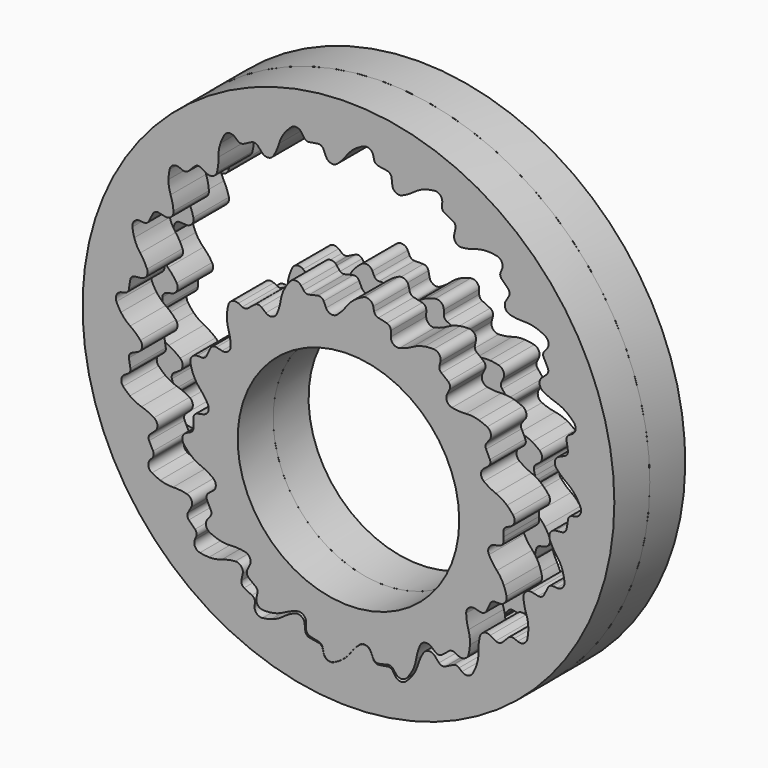
from build123d import *

# Parameters (mm, degrees)
F0_R      = 38.1
F1_DEPTH  = 6.35
F0_R_2    = 15.875
F2_DEPTH  = 6.35
F3_R      = 5.08
F3_2_R    = 5.08
F4_R      = 1.016
F5_R      = 1.016
F6_R      = 0.762
F7_R      = 0.762
F10_ANGLE = 9
F11_ANGLE = 12.8571


with BuildPart() as f1:
    # F0 (on Front) → F1 (new body)
    with BuildSketch(Plane.XZ):
        Circle(F0_R)
        with BuildLine():
            ThreePointArc((31.5214, 3.8031358167), (31.6927984722, 1.905), (31.75, 0))
            ThreePointArc((31.75, 0), (32.9224704526, -1.5227783942), (33.655, -3.2995567884))
            Line((33.655, -3.2995567884), (31.5214, -3.8031358167))
            ThreePointArc((31.5214, -3.8031358167), (31.3591048139, -4.966794265), (31.153866472, -6.1236511857))
            ThreePointArc((31.153866472, -6.1236511857), (30.7303198809, -7.9818506637), (30.1960443924, -9.8112895714))
            ThreePointArc((30.1960443924, -9.8112895714), (30.840565654, -11.6218511813), (30.9881879344, -13.5380319302))
            Line((30.9881879344, -13.5380319302), (28.8033992735, -13.3576453873))
            ThreePointArc((28.8033992735, -13.3576453873), (28.289457143, -14.4141983667), (27.736775432, -15.451012544))
            ThreePointArc((27.736775432, -15.451012544), (26.7597434689, -17.0873821716), (25.6862895714, -18.6621817603))
            ThreePointArc((25.6862895714, -18.6621817603), (25.7397714103, -20.5832962006), (25.2880361264, -22.4513101816))
            Line((25.2880361264, -22.4513101816), (23.265921141, -21.6046155592))
            ThreePointArc((23.265921141, -21.6046155592), (22.4506403027, -22.4506403027), (21.6046155592, -23.265921141))
            ThreePointArc((21.6046155592, -23.265921141), (20.1697369201, -24.5202816577), (18.6621817603, -25.6862895714))
            ThreePointArc((18.6621817603, -25.6862895714), (18.1193890015, -27.5299047756), (17.1125151502, -29.166897765))
            Line((17.1125151502, -29.166897765), (15.451012544, -27.736775432))
            ThreePointArc((15.451012544, -27.736775432), (14.4141983667, -28.289457143), (13.3576453873, -28.8033992735))
            ThreePointArc((13.3576453873, -28.8033992735), (11.6053759908, -29.5529651323), (9.8112895714, -30.1960443924))
            ThreePointArc((9.8112895714, -30.1960443924), (8.725354552, -31.7816944589), (7.2619019612, -33.0274261774))
            Line((7.2619019612, -33.0274261774), (6.1236511857, -31.153866472))
            ThreePointArc((6.1236511857, -31.153866472), (4.966794265, -31.3591048139), (3.8031358167, -31.5214))
            ThreePointArc((3.8031358167, -31.5214), (1.905, -31.6927984722), (0, -31.75))
            ThreePointArc((0, -31.75), (-1.5227783942, -32.9224704526), (-3.2995567884, -33.655))
            Line((-3.2995567884, -33.655), (-3.8031358167, -31.5214))
            ThreePointArc((-3.8031358167, -31.5214), (-4.966794265, -31.3591048139), (-6.1236511857, -31.153866472))
            ThreePointArc((-6.1236511857, -31.153866472), (-7.9818506637, -30.7303198809), (-9.8112895714, -30.1960443924))
            ThreePointArc((-9.8112895714, -30.1960443924), (-11.6218511813, -30.840565654), (-13.5380319302, -30.9881879344))
            Line((-13.5380319302, -30.9881879344), (-13.3576453873, -28.8033992735))
            ThreePointArc((-13.3576453873, -28.8033992735), (-14.4141983667, -28.289457143), (-15.451012544, -27.736775432))
            ThreePointArc((-15.451012544, -27.736775432), (-17.0873821716, -26.7597434689), (-18.6621817603, -25.6862895714))
            ThreePointArc((-18.6621817603, -25.6862895714), (-20.5832962006, -25.7397714103), (-22.4513101816, -25.2880361264))
            Line((-22.4513101816, -25.2880361264), (-21.6046155592, -23.265921141))
            ThreePointArc((-21.6046155592, -23.265921141), (-22.4506403027, -22.4506403027), (-23.265921141, -21.6046155592))
            ThreePointArc((-23.265921141, -21.6046155592), (-24.5202816577, -20.1697369201), (-25.6862895714, -18.6621817603))
            ThreePointArc((-25.6862895714, -18.6621817603), (-27.5299047756, -18.1193890015), (-29.166897765, -17.1125151502))
            Line((-29.166897765, -17.1125151502), (-27.736775432, -15.451012544))
            ThreePointArc((-27.736775432, -15.451012544), (-28.289457143, -14.4141983667), (-28.8033992735, -13.3576453873))
            ThreePointArc((-28.8033992735, -13.3576453873), (-29.5529651323, -11.6053759908), (-30.1960443924, -9.8112895714))
            ThreePointArc((-30.1960443924, -9.8112895714), (-31.7816944589, -8.725354552), (-33.0274261774, -7.2619019612))
            Line((-33.0274261774, -7.2619019612), (-31.153866472, -6.1236511857))
            ThreePointArc((-31.153866472, -6.1236511857), (-31.3591048139, -4.966794265), (-31.5214, -3.8031358167))
            ThreePointArc((-31.5214, -3.8031358167), (-31.6927984722, -1.905), (-31.75, 0))
            ThreePointArc((-31.75, 0), (-32.9224704526, 1.5227783942), (-33.655, 3.2995567884))
            Line((-33.655, 3.2995567884), (-31.5214, 3.8031358167))
            ThreePointArc((-31.5214, 3.8031358167), (-31.3591048139, 4.966794265), (-31.153866472, 6.1236511857))
            ThreePointArc((-31.153866472, 6.1236511857), (-30.7303198809, 7.9818506637), (-30.1960443924, 9.8112895714))
            ThreePointArc((-30.1960443924, 9.8112895714), (-30.840565654, 11.6218511813), (-30.9881879344, 13.5380319302))
            Line((-30.9881879344, 13.5380319302), (-28.8033992735, 13.3576453873))
            ThreePointArc((-28.8033992735, 13.3576453873), (-28.289457143, 14.4141983667), (-27.736775432, 15.451012544))
            ThreePointArc((-27.736775432, 15.451012544), (-26.7597434689, 17.0873821716), (-25.6862895714, 18.6621817603))
            ThreePointArc((-25.6862895714, 18.6621817603), (-25.7397714103, 20.5832962006), (-25.2880361264, 22.4513101816))
            Line((-25.2880361264, 22.4513101816), (-23.265921141, 21.6046155592))
            ThreePointArc((-23.265921141, 21.6046155592), (-22.4506403027, 22.4506403027), (-21.6046155592, 23.265921141))
            ThreePointArc((-21.6046155592, 23.265921141), (-20.1697369201, 24.5202816577), (-18.6621817603, 25.6862895714))
            ThreePointArc((-18.6621817603, 25.6862895714), (-18.1193890015, 27.5299047756), (-17.1125151502, 29.166897765))
            Line((-17.1125151502, 29.166897765), (-15.451012544, 27.736775432))
            ThreePointArc((-15.451012544, 27.736775432), (-14.4141983667, 28.289457143), (-13.3576453873, 28.8033992735))
            ThreePointArc((-13.3576453873, 28.8033992735), (-11.6053759908, 29.5529651323), (-9.8112895714, 30.1960443924))
            ThreePointArc((-9.8112895714, 30.1960443924), (-8.725354552, 31.7816944589), (-7.2619019612, 33.0274261774))
            Line((-7.2619019612, 33.0274261774), (-6.1236511857, 31.153866472))
            ThreePointArc((-6.1236511857, 31.153866472), (-4.966794265, 31.3591048139), (-3.8031358167, 31.5214))
            ThreePointArc((-3.8031358167, 31.5214), (-1.905, 31.6927984722), (0, 31.75))
            ThreePointArc((0, 31.75), (1.5227783942, 32.9224704526), (3.2995567884, 33.655))
            Line((3.2995567884, 33.655), (3.8031358167, 31.5214))
            ThreePointArc((3.8031358167, 31.5214), (4.966794265, 31.3591048139), (6.1236511857, 31.153866472))
            ThreePointArc((6.1236511857, 31.153866472), (7.9818506637, 30.7303198809), (9.8112895714, 30.1960443924))
            ThreePointArc((9.8112895714, 30.1960443924), (11.6218511813, 30.840565654), (13.5380319302, 30.9881879344))
            Line((13.5380319302, 30.9881879344), (13.3576453873, 28.8033992735))
            ThreePointArc((13.3576453873, 28.8033992735), (14.4141983667, 28.289457143), (15.451012544, 27.736775432))
            ThreePointArc((15.451012544, 27.736775432), (17.0873821716, 26.7597434689), (18.6621817603, 25.6862895714))
            ThreePointArc((18.6621817603, 25.6862895714), (20.5832962006, 25.7397714103), (22.4513101816, 25.2880361264))
            Line((22.4513101816, 25.2880361264), (21.6046155592, 23.265921141))
            ThreePointArc((21.6046155592, 23.265921141), (22.4506403027, 22.4506403027), (23.265921141, 21.6046155592))
            ThreePointArc((23.265921141, 21.6046155592), (24.5202816577, 20.1697369201), (25.6862895714, 18.6621817603))
            ThreePointArc((25.6862895714, 18.6621817603), (27.5299047756, 18.1193890015), (29.166897765, 17.1125151502))
            Line((29.166897765, 17.1125151502), (27.736775432, 15.451012544))
            ThreePointArc((27.736775432, 15.451012544), (28.289457143, 14.4141983667), (28.8033992735, 13.3576453873))
            ThreePointArc((28.8033992735, 13.3576453873), (29.5529651323, 11.6053759908), (30.1960443924, 9.8112895714))
            ThreePointArc((30.1960443924, 9.8112895714), (31.7816944589, 8.725354552), (33.0274261774, 7.2619019612))
            Line((33.0274261774, 7.2619019612), (31.153866472, 6.1236511857))
            ThreePointArc((31.153866472, 6.1236511857), (31.3591048139, 4.966794265), (31.5214, 3.8031358167))
        make_face(mode=Mode.SUBTRACT)
        with BuildLine():
            ThreePointArc((-2.6940768363, 29.0559231637), (-1.1674332957, 30.2233564594), (0, 31.75))
            ThreePointArc((0, 31.75), (-1.905, 31.6927984722), (-3.8031358167, 31.5214))
            Line((-3.8031358167, 31.5214), (-2.6940768363, 29.0559231637))
        make_face()
        with BuildLine():
            ThreePointArc((6.4165547142, 28.4663405884), (8.2292357298, 29.1048768332), (9.8112895714, 30.1960443924))
            ThreePointArc((9.8112895714, 30.1960443924), (7.9818506637, 30.7303198809), (6.1236511857, 31.153866472))
            Line((6.1236511857, 31.153866472), (6.4165547142, 28.4663405884))
        make_face()
        with BuildLine():
            ThreePointArc((14.8990891826, 25.0902742596), (16.8203698256, 25.137409077), (18.6621817603, 25.6862895714))
            ThreePointArc((18.6621817603, 25.6862895714), (17.0873821716, 26.7597434689), (15.451012544, 27.736775432))
            Line((15.451012544, 27.736775432), (14.8990891826, 25.0902742596))
        make_face()
        with BuildLine():
            ThreePointArc((21.9231969937, 19.2581970721), (23.7650089285, 18.7093165777), (25.6862895714, 18.6621817603))
            ThreePointArc((25.6862895714, 18.6621817603), (24.5202816577, 20.1697369201), (23.265921141, 21.6046155592))
            Line((23.265921141, 21.6046155592), (21.9231969937, 19.2581970721))
        make_face()
        with BuildLine():
            ThreePointArc((-19.2581970721, 21.9231969937), (-18.7093165777, 23.7650089285), (-18.6621817603, 25.6862895714))
            ThreePointArc((-18.6621817603, 25.6862895714), (-20.1697369201, 24.5202816577), (-21.6046155592, 23.265921141))
            Line((-21.6046155592, 23.265921141), (-19.2581970721, 21.9231969937))
        make_face()
        with BuildLine():
            ThreePointArc((-11.5409933754, 26.8013095352), (-10.4498258163, 28.3833633769), (-9.8112895714, 30.1960443924))
            ThreePointArc((-9.8112895714, 30.1960443924), (-11.6053759908, 29.5529651323), (-13.3576453873, 28.8033992735))
            Line((-13.3576453873, 28.8033992735), (-11.5409933754, 26.8013095352))
        make_face()
        with BuildLine():
            ThreePointArc((-25.0902742596, 14.8990891826), (-25.137409077, 16.8203698256), (-25.6862895714, 18.6621817603))
            ThreePointArc((-25.6862895714, 18.6621817603), (-26.7597434689, 17.0873821716), (-27.736775432, 15.451012544))
            Line((-27.736775432, 15.451012544), (-25.0902742596, 14.8990891826))
        make_face()
        with BuildLine():
            ThreePointArc((-28.4663405884, 6.4165547142), (-29.1048768332, 8.2292357298), (-30.1960443924, 9.8112895714))
            ThreePointArc((-30.1960443924, 9.8112895714), (-30.7303198809, 7.9818506637), (-31.153866472, 6.1236511857))
            Line((-31.153866472, 6.1236511857), (-28.4663405884, 6.4165547142))
        make_face()
        with BuildLine():
            ThreePointArc((-31.75, 0), (-31.6927984722, -1.905), (-31.5214, -3.8031358167))
            Line((-31.5214, -3.8031358167), (-29.0559231637, -2.6940768363))
            ThreePointArc((-29.0559231637, -2.6940768363), (-30.2233564594, -1.1674332957), (-31.75, 0))
        make_face()
        with BuildLine():
            ThreePointArc((-30.1960443924, -9.8112895714), (-29.5529651323, -11.6053759908), (-28.8033992735, -13.3576453873))
            Line((-28.8033992735, -13.3576453873), (-26.8013095352, -11.5409933754))
            ThreePointArc((-26.8013095352, -11.5409933754), (-28.3833633769, -10.4498258163), (-30.1960443924, -9.8112895714))
        make_face()
        with BuildLine():
            ThreePointArc((-25.6862895714, -18.6621817603), (-24.5202816577, -20.1697369201), (-23.265921141, -21.6046155592))
            Line((-23.265921141, -21.6046155592), (-21.9231969937, -19.2581970721))
            ThreePointArc((-21.9231969937, -19.2581970721), (-23.7650089285, -18.7093165777), (-25.6862895714, -18.6621817603))
        make_face()
        with BuildLine():
            ThreePointArc((-18.6621817603, -25.6862895714), (-17.0873821716, -26.7597434689), (-15.451012544, -27.736775432))
            Line((-15.451012544, -27.736775432), (-14.8990891826, -25.0902742596))
            ThreePointArc((-14.8990891826, -25.0902742596), (-16.8203698256, -25.137409077), (-18.6621817603, -25.6862895714))
        make_face()
        with BuildLine():
            ThreePointArc((-9.8112895714, -30.1960443924), (-7.9818506637, -30.7303198809), (-6.1236511857, -31.153866472))
            Line((-6.1236511857, -31.153866472), (-6.4165547142, -28.4663405884))
            ThreePointArc((-6.4165547142, -28.4663405884), (-8.2292357298, -29.1048768332), (-9.8112895714, -30.1960443924))
        make_face()
        with BuildLine():
            ThreePointArc((0, -31.75), (1.905, -31.6927984722), (3.8031358167, -31.5214))
            Line((3.8031358167, -31.5214), (2.6940768363, -29.0559231637))
            ThreePointArc((2.6940768363, -29.0559231637), (1.1674332957, -30.2233564594), (0, -31.75))
        make_face()
        with BuildLine():
            ThreePointArc((9.8112895714, -30.1960443924), (11.6053759908, -29.5529651323), (13.3576453873, -28.8033992735))
            Line((13.3576453873, -28.8033992735), (11.5409933754, -26.8013095352))
            ThreePointArc((11.5409933754, -26.8013095352), (10.4498258163, -28.3833633769), (9.8112895714, -30.1960443924))
        make_face()
        with BuildLine():
            ThreePointArc((18.6621817603, -25.6862895714), (20.1697369201, -24.5202816577), (21.6046155592, -23.265921141))
            Line((21.6046155592, -23.265921141), (19.2581970721, -21.9231969937))
            ThreePointArc((19.2581970721, -21.9231969937), (18.7093165777, -23.7650089285), (18.6621817603, -25.6862895714))
        make_face()
        with BuildLine():
            ThreePointArc((25.6862895714, -18.6621817603), (26.7597434689, -17.0873821716), (27.736775432, -15.451012544))
            Line((27.736775432, -15.451012544), (25.0902742596, -14.8990891826))
            ThreePointArc((25.0902742596, -14.8990891826), (25.137409077, -16.8203698256), (25.6862895714, -18.6621817603))
        make_face()
        with BuildLine():
            ThreePointArc((30.1960443924, -9.8112895714), (30.7303198809, -7.9818506637), (31.153866472, -6.1236511857))
            Line((31.153866472, -6.1236511857), (28.4663405884, -6.4165547142))
            ThreePointArc((28.4663405884, -6.4165547142), (29.1048768332, -8.2292357298), (30.1960443924, -9.8112895714))
        make_face()
        with BuildLine():
            ThreePointArc((29.0559231637, 2.6940768363), (30.2233564594, 1.1674332957), (31.75, 0))
            ThreePointArc((31.75, 0), (31.6927984722, 1.905), (31.5214, 3.8031358167))
            Line((31.5214, 3.8031358167), (29.0559231637, 2.6940768363))
        make_face()
        with BuildLine():
            ThreePointArc((26.8013095352, 11.5409933754), (28.3833633769, 10.4498258163), (30.1960443924, 9.8112895714))
            ThreePointArc((30.1960443924, 9.8112895714), (29.5529651323, 11.6053759908), (28.8033992735, 13.3576453873))
            Line((28.8033992735, 13.3576453873), (26.8013095352, 11.5409933754))
        make_face()
    extrude(amount=-F1_DEPTH)

    # F3#2
    f3_2_edges = [f1.edges().sort_by_distance(p)[0] for p in [
        (9.81129, 3.175, -30.196044),
        (0, 3.175, -31.75),
        (-9.81129, 3.175, -30.196044),
        (-18.662182, 3.175, -25.68629),
        (-25.68629, 3.175, -18.662182),
        (18.662182, 3.175, -25.68629),
        (25.68629, 3.175, -18.662182),
        (30.196044, 3.175, -9.81129),
        (31.75, 3.175, 0),
        (30.196044, 3.175, 9.81129),
        (25.68629, 3.175, 18.662182),
        (18.662182, 3.175, 25.68629),
        (9.81129, 3.175, 30.196044),
        (0, 3.175, 31.75),
        (-9.81129, 3.175, 30.196044),
        (-18.662182, 3.175, 25.68629),
        (-25.68629, 3.175, 18.662182),
        (-30.196044, 3.175, 9.81129),
        (-31.75, 3.175, 0),
        (-30.196044, 3.175, -9.81129),
    ]]
    fillet(f3_2_edges, radius=F3_2_R)

    # F5
    f5_edges = [f1.edges().sort_by_distance(p)[0] for p in [
        (2.694077, 3.175, -29.055923),
        (-3.299557, 3.175, -33.655),
        (-6.416555, 3.175, -28.466341),
        (7.261902, 3.175, -33.027426),
        (11.540993, 3.175, -26.80131),
        (-13.538032, 3.175, -30.988188),
        (17.112515, 3.175, -29.166898),
        (19.258197, 3.175, -21.923197),
        (25.288036, 3.175, -22.45131),
        (25.090274, 3.175, -14.899089),
        (30.988188, 3.175, -13.538032),
        (28.466341, 3.175, -6.416555),
        (33.655, 3.175, -3.299557),
        (29.055923, 3.175, 2.694077),
        (33.027426, 3.175, 7.261902),
        (26.80131, 3.175, 11.540993),
        (29.166898, 3.175, 17.112515),
        (21.923197, 3.175, 19.258197),
        (22.45131, 3.175, 25.288036),
        (14.899089, 3.175, 25.090274),
        (13.538032, 3.175, 30.988188),
        (6.416555, 3.175, 28.466341),
        (3.299557, 3.175, 33.655),
        (-2.694077, 3.175, 29.055923),
        (-7.261902, 3.175, 33.027426),
        (-11.540993, 3.175, 26.80131),
        (-17.112515, 3.175, 29.166898),
        (-19.258197, 3.175, 21.923197),
        (-25.288036, 3.175, 22.45131),
        (-25.090274, 3.175, 14.899089),
        (-30.988188, 3.175, 13.538032),
        (-28.466341, 3.175, 6.416555),
        (-33.655, 3.175, 3.299557),
        (-29.055923, 3.175, -2.694077),
        (-26.80131, 3.175, -11.540993),
        (-29.166898, 3.175, -17.112515),
        (-21.923197, 3.175, -19.258197),
        (-22.45131, 3.175, -25.288036),
        (-14.899089, 3.175, -25.090274),
        (-33.027426, 3.175, -7.261902),
    ]]
    fillet(f5_edges, radius=F5_R)

    # F7
    f7_edges = [f1.edges().sort_by_distance(p)[0] for p in [
        (13.357645, 3.175, -28.803399),
        (6.123651, 3.175, -31.153866),
        (3.803136, 3.175, -31.5214),
        (-3.803136, 3.175, -31.5214),
        (-6.123651, 3.175, -31.153866),
        (-13.357645, 3.175, -28.803399),
        (15.451013, 3.175, -27.736775),
        (21.604616, 3.175, -23.265921),
        (23.265921, 3.175, -21.604616),
        (27.736775, 3.175, -15.451013),
        (28.803399, 3.175, -13.357645),
        (-15.451013, 3.175, -27.736775),
        (-21.604616, 3.175, -23.265921),
        (-23.265921, 3.175, -21.604616),
        (-27.736775, 3.175, -15.451013),
        (-28.803399, 3.175, -13.357645),
        (-31.153866, 3.175, -6.123651),
        (-31.5214, 3.175, -3.803136),
        (-31.5214, 3.175, 3.803136),
        (-31.153866, 3.175, 6.123651),
        (-28.803399, 3.175, 13.357645),
        (-27.736775, 3.175, 15.451013),
        (-23.265921, 3.175, 21.604616),
        (-21.604616, 3.175, 23.265921),
        (-15.451013, 3.175, 27.736775),
        (-13.357645, 3.175, 28.803399),
        (-6.123651, 3.175, 31.153866),
        (-3.803136, 3.175, 31.5214),
        (3.803136, 3.175, 31.5214),
        (6.123651, 3.175, 31.153866),
        (13.357645, 3.175, 28.803399),
        (15.451013, 3.175, 27.736775),
        (21.604616, 3.175, 23.265921),
        (23.265921, 3.175, 21.604616),
        (27.736775, 3.175, 15.451013),
        (28.803399, 3.175, 13.357645),
        (31.153866, 3.175, 6.123651),
        (31.5214, 3.175, 3.803136),
        (31.5214, 3.175, -3.803136),
        (31.153866, 3.175, -6.123651),
    ]]
    fillet(f7_edges, radius=F7_R)


with BuildPart() as f2:
    # F0 (on Front) → F2 (new body)
    with BuildSketch(Plane.XZ):
        with BuildLine():
            ThreePointArc((22.1940738793, -1.1720535987), (22.2172671246, -0.5862307701), (22.225, 0))
            ThreePointArc((22.225, 0), (22.2172671246, 0.5862307701), (22.1940738793, 1.1720535987))
            ThreePointArc((22.1940738793, 1.1720535987), (22.0119325911, 3.0700893481), (21.6677728482, 4.9455277572))
            ThreePointArc((21.6677728482, 4.9455277572), (19.9196271013, 5.7439809163), (18.4417536492, 6.9725699687))
            Line((18.4417536492, 6.9725699687), (20.5047046151, 8.5736639571))
            ThreePointArc((20.5047046151, 8.5736639571), (20.0240330891, 9.6430661019), (19.4876346194, 10.685631565))
            ThreePointArc((19.4876346194, 10.685631565), (18.5000041412, 12.3166745421), (17.3762046979, 13.8570608463))
            ThreePointArc((17.3762046979, 13.8570608463), (15.4547439611, 13.817950272), (13.5901611782, 14.2836455003))
            Line((13.5901611782, 14.2836455003), (14.7541271281, 16.6212622171))
            ThreePointArc((14.7541271281, 16.6212622171), (13.8570608463, 17.3762046979), (12.9214303229, 18.0827891491))
            ThreePointArc((12.9214303229, 18.0827891491), (11.3239229834, 19.123791289), (9.6430661019, 20.0240330891))
            ThreePointArc((9.6430661019, 20.0240330891), (7.9288592394, 19.1551051102), (6.0468706134, 18.7656698631))
            Line((6.0468706134, 18.7656698631), (6.0813138159, 21.3768156486))
            ThreePointArc((6.0813138159, 21.3768156486), (4.9455277572, 21.6677728482), (3.79597828, 21.8984285714))
            ThreePointArc((3.79597828, 21.8984285714), (1.905, 22.1432066332), (0, 22.225))
            ThreePointArc((0, 22.225), (-1.1674332957, 20.6983564594), (-2.6940768363, 19.5309231637))
            Line((-2.6940768363, 19.5309231637), (-3.79597828, 21.8984285714))
            ThreePointArc((-3.79597828, 21.8984285714), (-4.9455277572, 21.6677728482), (-6.0813138159, 21.3768156486))
            ThreePointArc((-6.0813138159, 21.3768156486), (-7.8912315967, 20.7768883351), (-9.6430661019, 20.0240330891))
            ThreePointArc((-9.6430661019, 20.0240330891), (-10.032501349, 18.1420444632), (-10.9014293279, 16.4278376007))
            Line((-10.9014293279, 16.4278376007), (-12.9214303229, 18.0827891491))
            ThreePointArc((-12.9214303229, 18.0827891491), (-13.8570608463, 17.3762046979), (-14.7541271281, 16.6212622171))
            ThreePointArc((-14.7541271281, 16.6212622171), (-16.1245079961, 15.2954524903), (-17.3762046979, 13.8570608463))
            ThreePointArc((-17.3762046979, 13.8570608463), (-16.9105094696, 11.9924780634), (-16.9496200439, 10.0710173266))
            Line((-16.9496200439, 10.0710173266), (-19.4876346194, 10.685631565))
            ThreePointArc((-19.4876346194, 10.685631565), (-20.0240330891, 9.6430661019), (-20.5047046151, 8.5736639571))
            ThreePointArc((-20.5047046151, 8.5736639571), (-21.1641278327, 6.7845646935), (-21.6677728482, 4.9455277572))
            ThreePointArc((-21.6677728482, 4.9455277572), (-20.4391837959, 3.4676543051), (-19.6407306367, 1.7195085581))
            Line((-19.6407306367, 1.7195085581), (-22.1940738793, 1.1720535987))
            ThreePointArc((-22.1940738793, 1.1720535987), (-22.225, 0), (-22.1940738793, -1.1720535987))
            ThreePointArc((-22.1940738793, -1.1720535987), (-22.0119325911, -3.0700893481), (-21.6677728482, -4.9455277572))
            ThreePointArc((-21.6677728482, -4.9455277572), (-19.9196271013, -5.7439809163), (-18.4417536492, -6.9725699687))
            Line((-18.4417536492, -6.9725699687), (-20.5047046151, -8.5736639571))
            ThreePointArc((-20.5047046151, -8.5736639571), (-20.0240330891, -9.6430661019), (-19.4876346194, -10.685631565))
            ThreePointArc((-19.4876346194, -10.685631565), (-18.5000041412, -12.3166745421), (-17.3762046979, -13.8570608463))
            ThreePointArc((-17.3762046979, -13.8570608463), (-15.4547439611, -13.817950272), (-13.5901611782, -14.2836455003))
            Line((-13.5901611782, -14.2836455003), (-14.7541271281, -16.6212622171))
            ThreePointArc((-14.7541271281, -16.6212622171), (-13.8570608463, -17.3762046979), (-12.9214303229, -18.0827891491))
            ThreePointArc((-12.9214303229, -18.0827891491), (-11.3239229834, -19.123791289), (-9.6430661019, -20.0240330891))
            ThreePointArc((-9.6430661019, -20.0240330891), (-7.9288592394, -19.1551051102), (-6.0468706134, -18.7656698631))
            Line((-6.0468706134, -18.7656698631), (-6.0813138159, -21.3768156486))
            ThreePointArc((-6.0813138159, -21.3768156486), (-4.9455277572, -21.6677728482), (-3.79597828, -21.8984285714))
            ThreePointArc((-3.79597828, -21.8984285714), (-1.905, -22.1432066332), (0, -22.225))
            ThreePointArc((0, -22.225), (1.1674332957, -20.6983564594), (2.6940768363, -19.5309231637))
            Line((2.6940768363, -19.5309231637), (3.79597828, -21.8984285714))
            ThreePointArc((3.79597828, -21.8984285714), (4.9455277572, -21.6677728482), (6.0813138159, -21.3768156486))
            ThreePointArc((6.0813138159, -21.3768156486), (7.8912315967, -20.7768883351), (9.6430661019, -20.0240330891))
            ThreePointArc((9.6430661019, -20.0240330891), (10.032501349, -18.1420444632), (10.9014293279, -16.4278376007))
            Line((10.9014293279, -16.4278376007), (12.9214303229, -18.0827891491))
            ThreePointArc((12.9214303229, -18.0827891491), (13.8570608463, -17.3762046979), (14.7541271281, -16.6212622171))
            ThreePointArc((14.7541271281, -16.6212622171), (16.1245079961, -15.2954524903), (17.3762046979, -13.8570608463))
            ThreePointArc((17.3762046979, -13.8570608463), (16.9105094696, -11.9924780634), (16.9496200439, -10.0710173266))
            Line((16.9496200439, -10.0710173266), (19.4876346194, -10.685631565))
            ThreePointArc((19.4876346194, -10.685631565), (20.0240330891, -9.6430661019), (20.5047046151, -8.5736639571))
            ThreePointArc((20.5047046151, -8.5736639571), (21.1641278327, -6.7845646935), (21.6677728482, -4.9455277572))
            ThreePointArc((21.6677728482, -4.9455277572), (20.4391837959, -3.4676543051), (19.6407306367, -1.7195085581))
            Line((19.6407306367, -1.7195085581), (22.1940738793, -1.1720535987))
        make_face()
        Circle(F0_R_2, mode=Mode.SUBTRACT)
        with BuildLine():
            ThreePointArc((-9.6430661019, 20.0240330891), (-7.8912315967, 20.7768883351), (-6.0813138159, 21.3768156486))
            Line((-6.0813138159, 21.3768156486), (-7.4968166807, 23.1720028193))
            ThreePointArc((-7.4968166807, 23.1720028193), (-8.77980604, 21.741101249), (-9.6430661019, 20.0240330891))
        make_face()
        with BuildLine():
            ThreePointArc((0, 22.225), (1.905, 22.1432066332), (3.79597828, 21.8984285714))
            Line((3.79597828, 21.8984285714), (3.2995567884, 24.13))
            ThreePointArc((3.2995567884, 24.13), (1.5227783942, 23.3974704526), (0, 22.225))
        make_face()
        with BuildLine():
            ThreePointArc((9.6430661019, 20.0240330891), (11.3239229834, 19.123791289), (12.9214303229, 18.0827891491))
            Line((12.9214303229, 18.0827891491), (13.4424125691, 20.3087547457))
            ThreePointArc((13.4424125691, 20.3087547457), (11.5237578917, 20.4196836819), (9.6430661019, 20.0240330891))
        make_face()
        with BuildLine():
            ThreePointArc((17.3762046979, 13.8570608463), (18.5000041412, 12.3166745421), (19.4876346194, 10.685631565))
            Line((19.4876346194, 10.685631565), (20.9228336802, 12.4651115435))
            ThreePointArc((20.9228336802, 12.4651115435), (19.2423158092, 13.397528127), (17.3762046979, 13.8570608463))
        make_face()
        with BuildLine():
            ThreePointArc((-17.3762046979, 13.8570608463), (-16.1245079961, 15.2954524903), (-14.7541271281, 16.6212622171))
            Line((-14.7541271281, 16.6212622171), (-16.8083536637, 17.6245062942))
            ThreePointArc((-16.8083536637, 17.6245062942), (-17.3434422106, 15.7786403059), (-17.3762046979, 13.8570608463))
        make_face()
        with BuildLine():
            ThreePointArc((-21.6677728482, 4.9455277572), (-21.1641278327, 6.7845646935), (-20.5047046151, 8.5736639571))
            Line((-20.5047046151, 8.5736639571), (-22.7907900627, 8.5862601472))
            ThreePointArc((-22.7907900627, 8.5862601472), (-22.4719969482, 6.6910261379), (-21.6677728482, 4.9455277572))
        make_face()
        with BuildLine():
            ThreePointArc((-24.2592309791, -2.1526001255), (-23.1496970891, -3.7218278167), (-21.6677728482, -4.9455277572))
            ThreePointArc((-21.6677728482, -4.9455277572), (-22.0119325911, -3.0700893481), (-22.1940738793, -1.1720535987))
            Line((-22.1940738793, -1.1720535987), (-24.2592309791, -2.1526001255))
        make_face()
        with BuildLine():
            ThreePointArc((-20.9228336802, -12.4651115435), (-19.2423158092, -13.397528127), (-17.3762046979, -13.8570608463))
            ThreePointArc((-17.3762046979, -13.8570608463), (-18.5000041412, -12.3166745421), (-19.4876346194, -10.685631565))
            Line((-19.4876346194, -10.685631565), (-20.9228336802, -12.4651115435))
        make_face()
        with BuildLine():
            ThreePointArc((-13.4424125691, -20.3087547457), (-11.5237578917, -20.4196836819), (-9.6430661019, -20.0240330891))
            ThreePointArc((-9.6430661019, -20.0240330891), (-11.3239229834, -19.123791289), (-12.9214303229, -18.0827891491))
            Line((-12.9214303229, -18.0827891491), (-13.4424125691, -20.3087547457))
        make_face()
        with BuildLine():
            ThreePointArc((-3.2995567884, -24.13), (-1.5227783942, -23.3974704526), (0, -22.225))
            ThreePointArc((0, -22.225), (-1.905, -22.1432066332), (-3.79597828, -21.8984285714))
            Line((-3.79597828, -21.8984285714), (-3.2995567884, -24.13))
        make_face()
        with BuildLine():
            ThreePointArc((7.4968166807, -23.1720028193), (8.77980604, -21.741101249), (9.6430661019, -20.0240330891))
            ThreePointArc((9.6430661019, -20.0240330891), (7.8912315967, -20.7768883351), (6.0813138159, -21.3768156486))
            Line((6.0813138159, -21.3768156486), (7.4968166807, -23.1720028193))
        make_face()
        with BuildLine():
            ThreePointArc((16.8083536637, -17.6245062942), (17.3434422106, -15.7786403059), (17.3762046979, -13.8570608463))
            ThreePointArc((17.3762046979, -13.8570608463), (16.1245079961, -15.2954524903), (14.7541271281, -16.6212622171))
            Line((14.7541271281, -16.6212622171), (16.8083536637, -17.6245062942))
        make_face()
        with BuildLine():
            ThreePointArc((22.7907900627, -8.5862601472), (22.4719969482, -6.6910261379), (21.6677728482, -4.9455277572))
            ThreePointArc((21.6677728482, -4.9455277572), (21.1641278327, -6.7845646935), (20.5047046151, -8.5736639571))
            Line((20.5047046151, -8.5736639571), (22.7907900627, -8.5862601472))
        make_face()
        with BuildLine():
            ThreePointArc((21.6677728482, 4.9455277572), (22.0119325911, 3.0700893481), (22.1940738793, 1.1720535987))
            Line((22.1940738793, 1.1720535987), (24.2592309791, 2.1526001255))
            ThreePointArc((24.2592309791, 2.1526001255), (23.1496970891, 3.7218278167), (21.6677728482, 4.9455277572))
        make_face()
    extrude(amount=-F2_DEPTH)

    # F3
    f3_edges = [f2.edges().sort_by_distance(p)[0] for p in [
        (0, 3.175, -22.225),
        (9.643066, 3.175, -20.024033),
        (-9.643066, 3.175, -20.024033),
        (17.376205, 3.175, -13.857061),
        (-17.376205, 3.175, -13.857061),
        (-21.667773, 3.175, -4.945528),
        (-21.667773, 3.175, 4.945528),
        (-17.376205, 3.175, 13.857061),
        (-9.643066, 3.175, 20.024033),
        (0, 3.175, 22.225),
        (9.643066, 3.175, 20.024033),
        (17.376205, 3.175, 13.857061),
        (21.667773, 3.175, 4.945528),
        (21.667773, 3.175, -4.945528),
    ]]
    fillet(f3_edges, radius=F3_R)

    # F4
    f4_edges = [f2.edges().sort_by_distance(p)[0] for p in [
        (2.694077, 3.175, -19.530923),
        (-3.299557, 3.175, -24.13),
        (7.496817, 3.175, -23.172003),
        (10.901429, 3.175, -16.427838),
        (-6.046871, 3.175, -18.76567),
        (-13.442413, 3.175, -20.308755),
        (16.808354, 3.175, -17.624506),
        (16.94962, 3.175, -10.071017),
        (22.79079, 3.175, -8.58626),
        (19.640731, 3.175, -1.719509),
        (24.259231, 3.175, 2.1526),
        (18.441754, 3.175, 6.97257),
        (20.922834, 3.175, 12.465112),
        (13.590161, 3.175, 14.283646),
        (13.442413, 3.175, 20.308755),
        (6.046871, 3.175, 18.76567),
        (3.299557, 3.175, 24.13),
        (-2.694077, 3.175, 19.530923),
        (-7.496817, 3.175, 23.172003),
        (-10.901429, 3.175, 16.427838),
        (-16.808354, 3.175, 17.624506),
        (-22.79079, 3.175, 8.58626),
        (-16.94962, 3.175, 10.071017),
        (-19.640731, 3.175, 1.719509),
        (-24.259231, 3.175, -2.1526),
        (-18.441754, 3.175, -6.97257),
        (-20.922834, 3.175, -12.465112),
        (-13.590161, 3.175, -14.283646),
    ]]
    fillet(f4_edges, radius=F4_R)

    # F6
    f6_edges = [f2.edges().sort_by_distance(p)[0] for p in [
        (3.795978, 3.175, -21.898429),
        (6.081314, 3.175, -21.376816),
        (12.92143, 3.175, -18.082789),
        (-3.795978, 3.175, -21.898429),
        (-6.081314, 3.175, -21.376816),
        (-12.92143, 3.175, -18.082789),
        (14.754127, 3.175, -16.621262),
        (19.487635, 3.175, -10.685632),
        (20.504705, 3.175, -8.573664),
        (-14.754127, 3.175, -16.621262),
        (-19.487635, 3.175, -10.685632),
        (-20.504705, 3.175, -8.573664),
        (22.194074, 3.175, -1.172054),
        (22.194074, 3.175, 1.172054),
        (20.504705, 3.175, 8.573664),
        (19.487635, 3.175, 10.685632),
        (14.754127, 3.175, 16.621262),
        (12.92143, 3.175, 18.082789),
        (6.081314, 3.175, 21.376816),
        (3.795978, 3.175, 21.898429),
        (-3.795978, 3.175, 21.898429),
        (-6.081314, 3.175, 21.376816),
        (-12.92143, 3.175, 18.082789),
        (-14.754127, 3.175, 16.621262),
        (-19.487635, 3.175, 10.685632),
        (-20.504705, 3.175, 8.573664),
        (-22.194074, 3.175, 1.172054),
        (-22.194074, 3.175, -1.172054),
    ]]
    fillet(f6_edges, radius=F6_R)


with BuildPart() as f2_1:
    # F8: moved
    add(f2.part.moved(Location((0, 0, -9.4996))))


with BuildPart() as f9_1:
    # F9: copy of F1
    add(f1.part.moved(Location((0, 6.35, 0))))


with BuildPart() as f9_2:
    # F9: copy of F2
    add(f2_1.part.moved(Location((0, 6.35, 0))))


with BuildPart() as f9_1_1:
    # F10: moved
    add(f9_1.part.rotate(Axis((0, 12.7, 0), (0, -1, 0)), F10_ANGLE))


with BuildPart() as f9_2_1:
    # F11: moved
    add(f9_2.part.rotate(Axis((0, 12.7, -9.4996), (0, -1, 0)), F11_ANGLE))


solid = Compound([f1.part, f2_1.part, f9_1_1.part, f9_2_1.part])
